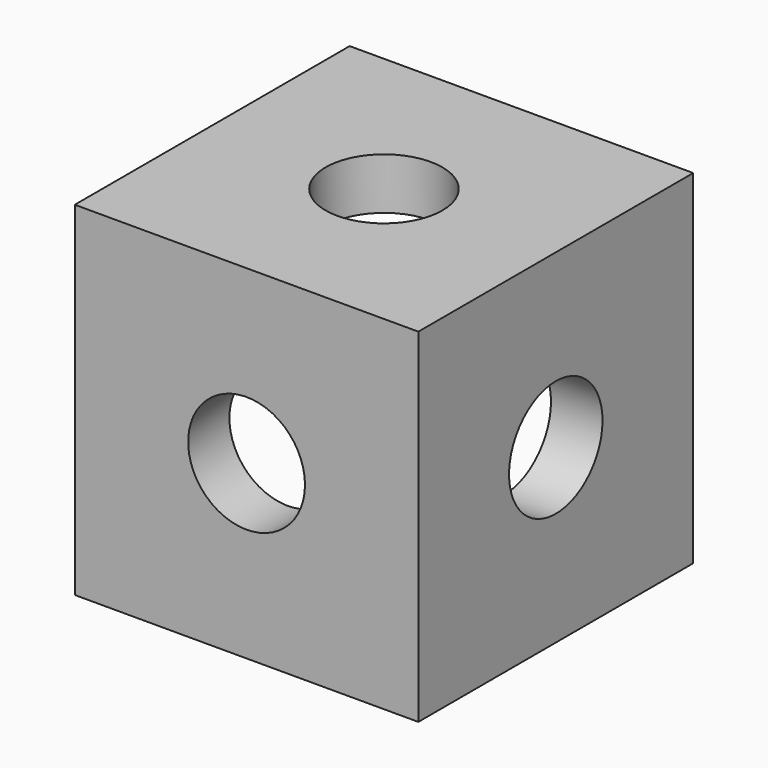
from build123d import *

# Parameters (mm, degrees)
F0_W     = 10
F0_H     = 10
F1_DEPTH = 10
F2_W     = 8.5
F2_H     = 8.5
F3_DEPTH = 8.5
F4_R     = 1.7
F5_DEPTH = 25
F6_R     = 1.7
F7_DEPTH = 25
F8_R     = 1.7
F9_DEPTH = 25


with BuildPart() as f1:
    # F0 (on Top) → F1 (new body)
    with BuildSketch(Plane.XY):
        Rectangle(F0_W, F0_H)
    extrude(amount=F1_DEPTH)

    # F2 (on face) → F3 (cut)
    with BuildSketch(Plane(origin=(0, 0, 0), x_dir=(1, 0, 0), z_dir=(0, 0, -1))):
        with Locations((-0.75, -0.75)):
            Rectangle(F2_W, F2_H)
    extrude(amount=-F3_DEPTH, mode=Mode.SUBTRACT)

    # F4 (on face) → F5 (cut)
    with BuildSketch(Plane.YZ.offset(5)):
        with Locations((0, 5)):
            Circle(F4_R)
    extrude(amount=-F5_DEPTH, mode=Mode.SUBTRACT)

    # F6 (on face) → F7 (cut)
    with BuildSketch(Plane.XY.offset(10)):
        Circle(F6_R)
    extrude(amount=-F7_DEPTH, mode=Mode.SUBTRACT)

    # F8 (on face) → F9 (cut)
    with BuildSketch(Plane.XZ.offset(5)):
        with Locations((0, 5)):
            Circle(F8_R)
    extrude(amount=-F9_DEPTH, mode=Mode.SUBTRACT)


solid = f1.part
